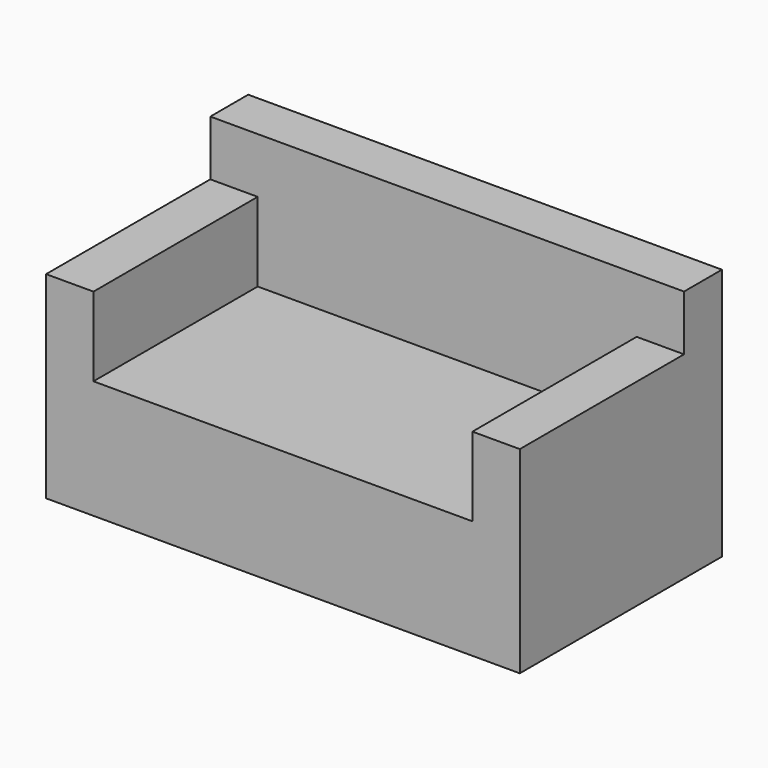
from build123d import *

# Parameters (mm, degrees)
F0_W     = 1524
F0_H     = 812.8
F1_DEPTH = 381
F3_DEPTH = 254
F4_W     = 1524
F4_H     = 152.4
F5_DEPTH = 177.8


with BuildPart() as f1:
    # F0 (on Top) → F1 (new body)
    with BuildSketch(Plane.XY):
        with Locations((762, -406.4)):
            Rectangle(F0_W, F0_H)
    extrude(amount=F1_DEPTH)

    # F2 (on face) → F3 (join)
    with BuildSketch(Plane.XY.offset(381)):
        Polygon((0, 0), (0, -812.8), (152.4, -812.8), (152.4, -152.4), (1371.6, -152.4), (1371.6, -812.8), (1524, -812.8), (1524, 0), align=None)
    extrude(amount=F3_DEPTH)

    # F4 (on face) → F5 (join)
    with BuildSketch(Plane.XY.offset(635)):
        with Locations((762, -76.2)):
            Rectangle(F4_W, F4_H)
    extrude(amount=F5_DEPTH)


solid = f1.part
